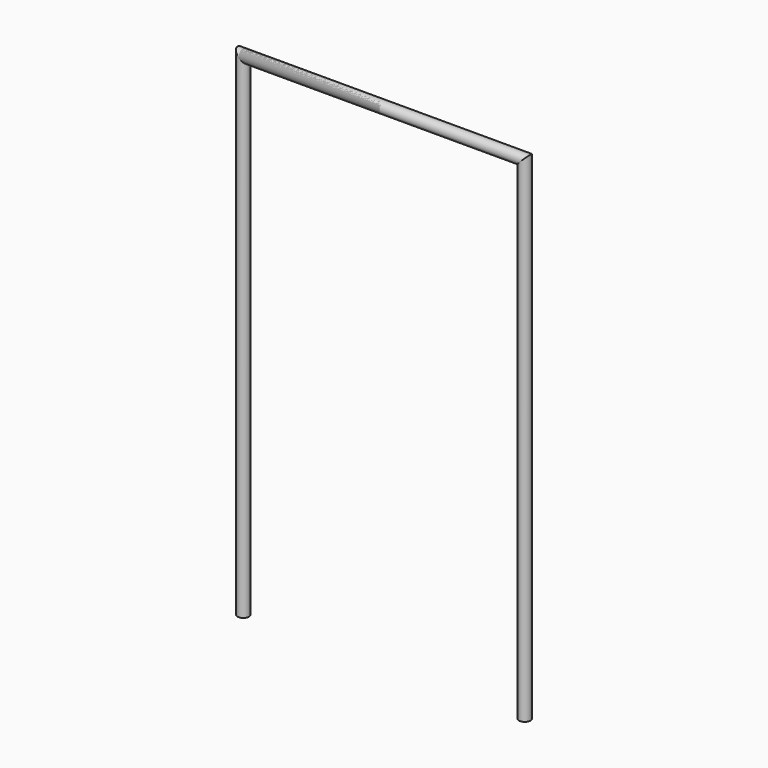
from build123d import *

# Parameters (mm, degrees)
F0_R = 25
F4_R = 25


with BuildPart() as f2:
    # F2: sweep along a path in F1
    with BuildLine(Plane.XZ) as f2_path:
        Line((0, 0), (0, 2133.6))
        Line((0, 2133.6), (609.6, 2133.6))
    # F0 (on Top) → F2 (sweep)
    with BuildSketch(Plane.XY):
        Circle(F0_R)
    sweep(path=f2_path.line, transition=Transition.RIGHT)


with BuildPart() as f5:
    # F5: sweep along a path in F1
    with BuildLine(Plane.XZ) as f5_path:
        Line((1219.2, 0), (1219.2, 2133.6))
        Line((1219.2, 2133.6), (0, 2133.6))
    # F4 (on line) → F5 (sweep)
    with BuildSketch(Plane(origin=(0, 0, 0), x_dir=(1, 0, 0), z_dir=(0, 0, -1))):
        with Locations((1219.2332744598, 0)):
            Circle(F4_R)
    sweep(path=f5_path.line, transition=Transition.RIGHT)


solid = Compound([f2.part, f5.part])
